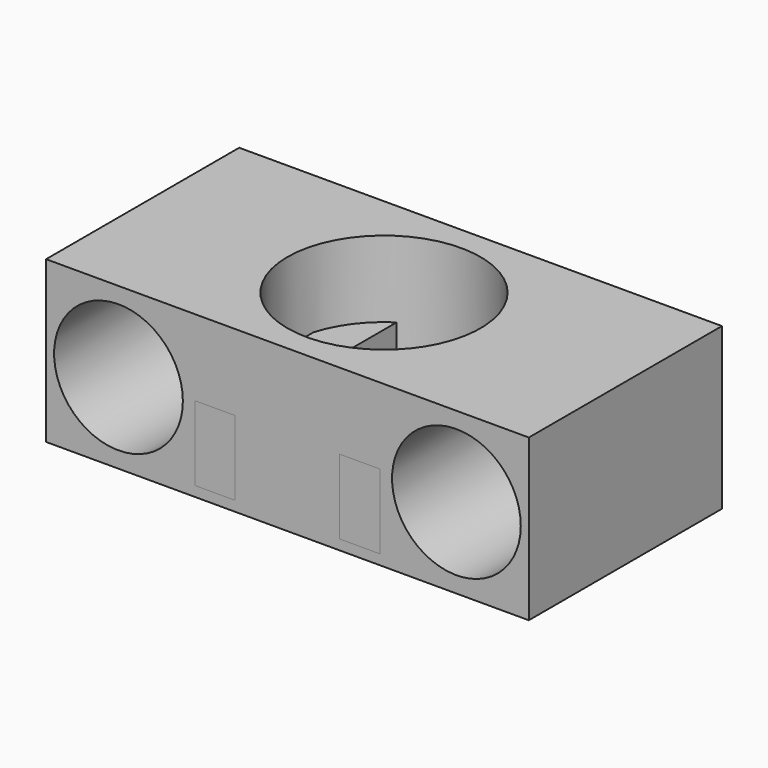
from build123d import *

# Parameters (mm, degrees)
F0_W     = 30
F0_H     = 10
F0_R     = 4
F1_DEPTH = 15
F3_D     = 12
F3_DEPTH = 10
F3_TIP   = 3.6051637142
F5_DEPTH = 25
F6_DEPTH = 15


with BuildPart() as f1:
    # F0 (on Front) → F1 (new body)
    with BuildSketch(Plane.XZ):
        Rectangle(F0_W, F0_H)
        with Locations((-10.5, 0)):
            Circle(F0_R, mode=Mode.SUBTRACT)
        Polygon((6, 0.6794541841), (6, 0), (6, -0.6794541841), (-6, -0.6794541841), (-6, 0), (-6, 0.6794541841), align=None, mode=Mode.SUBTRACT)
        with BuildLine():
            ThreePointArc((6.5, 0), (10.5, 4), (14.5, 0))
            ThreePointArc((14.5, 0), (10.5, -4), (6.5, 0))
        make_face(mode=Mode.SUBTRACT)
        Polygon((6, -0.6794541841), (6, 0), (0, 0), (-6, 0), (-6, -0.6794541841), align=None)
        Polygon((0, 0), (6, 0), (6, 0.6794541841), (-6, 0.6794541841), (-6, 0), align=None)
    extrude(amount=F1_DEPTH)

    # F3
    with Locations(Plane.XY.offset(5)):
        with Locations((0, -7.5)):
            Hole(F3_D / 2, depth=F3_DEPTH)
            with Locations((0, 0, -(F3_DEPTH + F3_TIP / 2))):  # 118° drill point
                Cone(0, F3_D / 2, F3_TIP, mode=Mode.SUBTRACT)

    # F4 (on face) → F5 (cut)
    with BuildSketch(Plane.XZ.offset(15)):
        Polygon((-5.75, -4.375), (-3.25, -4.375), (-3.25, -3.75), (-3.25, -2.5), (-3.25, 0.265), (-5.75, 0.265), align=None)
        Polygon((3.25, -3.75), (3.25, -4.375), (5.75, -4.375), (5.75, 0.265), (3.25, 0.265), (3.25, -2.5), align=None)
    extrude(amount=-F5_DEPTH, mode=Mode.SUBTRACT)


with BuildPart() as f6:
    # F4 (on face) → F6 (new body)
    with BuildSketch(Plane.XZ.offset(15)):
        Polygon((-5.75, -4.375), (-3.25, -4.375), (-3.25, -3.75), (-3.25, -2.5), (-3.25, 0.265), (-5.75, 0.265), align=None)
    extrude(amount=-F6_DEPTH)


with BuildPart() as f6b:
    # F4 (on face) → F6, piece 2 (new body)
    with BuildSketch(Plane.XZ.offset(15)):
        Polygon((3.25, -3.75), (3.25, -4.375), (5.75, -4.375), (5.75, 0.265), (3.25, 0.265), (3.25, -2.5), align=None)
    extrude(amount=-F6_DEPTH)


solid = Compound([f1.part, f6.part, f6b.part])
